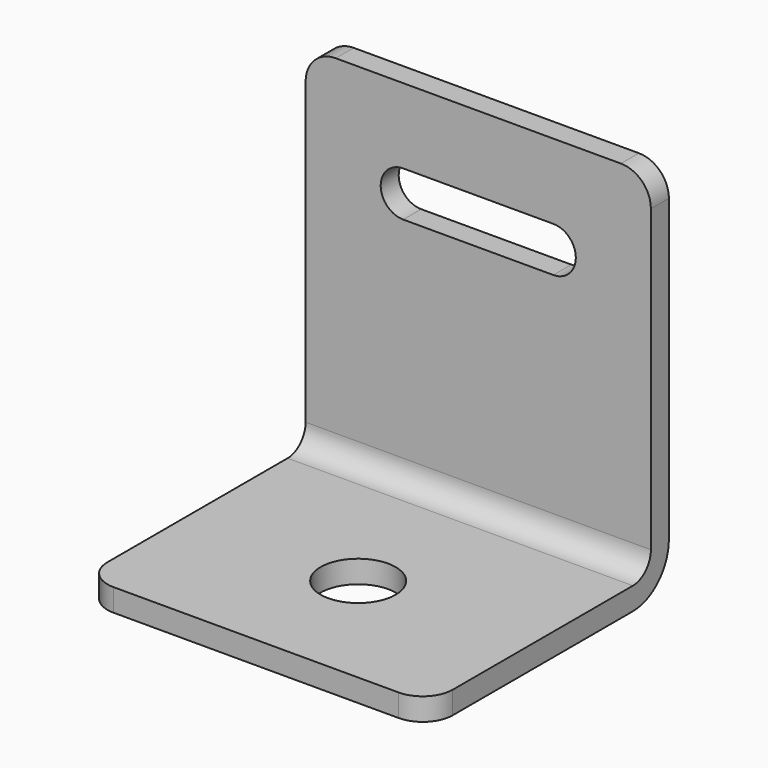
from build123d import *

# Parameters (mm, degrees)
F1_DEPTH = 11.5
F2_R     = 2.5
F3_DEPTH = 25
F5_DEPTH = 25
F6_R     = 2


with BuildPart() as f1:
    # F0 (on Right) → F1 (new body, symmetric)
    with BuildSketch(Plane.YZ):
        with BuildLine():
            ThreePointArc((-3, 0), (-0.87868, 0.87868), (0, 3))
            Line((0, 3), (0, 25))
            Line((0, 25), (-1.5, 25))
            Line((-1.5, 25), (-1.5, 3))
            ThreePointArc((-1.5, 3), (-1.93934, 1.93934), (-3, 1.5))
            Line((-3, 1.5), (-20, 1.5))
            Line((-20, 1.5), (-20, 0))
            Line((-20, 0), (-3, 0))
        make_face()
    extrude(amount=F1_DEPTH, both=True)

    # F2 (on face) → F3 (cut)
    with BuildSketch(Plane.XY.offset(1.5)):
        with Locations((0, -11.5)):
            Circle(F2_R)
    extrude(amount=-F3_DEPTH, mode=Mode.SUBTRACT)

    # F4 (on face) → F5 (cut)
    with BuildSketch(Plane.XZ.offset(1.5)):
        with BuildLine():
            Line((5, 20), (-5, 20))
            ThreePointArc((-5, 20), (-6.5, 18.5), (-5, 17))
            Line((-5, 17), (5, 17))
            ThreePointArc((5, 17), (6.5, 18.5), (5, 20))
        make_face()
    extrude(amount=-F5_DEPTH, mode=Mode.SUBTRACT)

    # F6
    f6_edges = [f1.edges().sort_by_distance(p)[0] for p in [
        (11.5, -0.75, 25),
        (-11.5, -0.75, 25),
        (11.5, -20, 0.75),
        (-11.5, -20, 0.75),
    ]]
    fillet(f6_edges, radius=F6_R)


solid = f1.part
